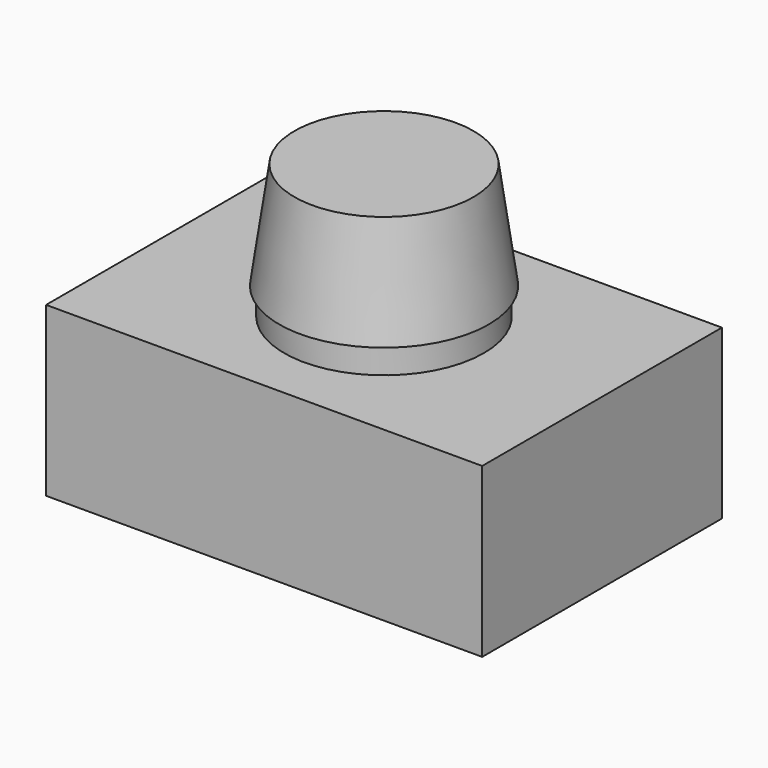
from build123d import *

# Parameters (mm, degrees)
F0_W     = 17.9
F0_H     = 12.3
F1_DEPTH = 6.9
F2_R     = 4.1
F3_DEPTH = 1.1
F7_R     = 3.675
F4_R     = 4.3


with BuildPart() as f1:
    # F0 (on Top) → F1 (new body)
    with BuildSketch(Plane.XY):
        Rectangle(F0_W, F0_H)
    extrude(amount=F1_DEPTH)

    # F2 (on face) → F3 (join)
    with BuildSketch(Plane.XY.offset(6.9)):
        Circle(F2_R)
    extrude(amount=F3_DEPTH)

    # F7 (on plane+point) → F8 section 0
    with BuildSketch(Plane.XY.offset(12.4)):
        Circle(F7_R)
    # F4 (on face) → F8 section 1
    with BuildSketch(Plane.XY.offset(8)):
        Circle(F4_R)
    loft()


solid = f1.part
